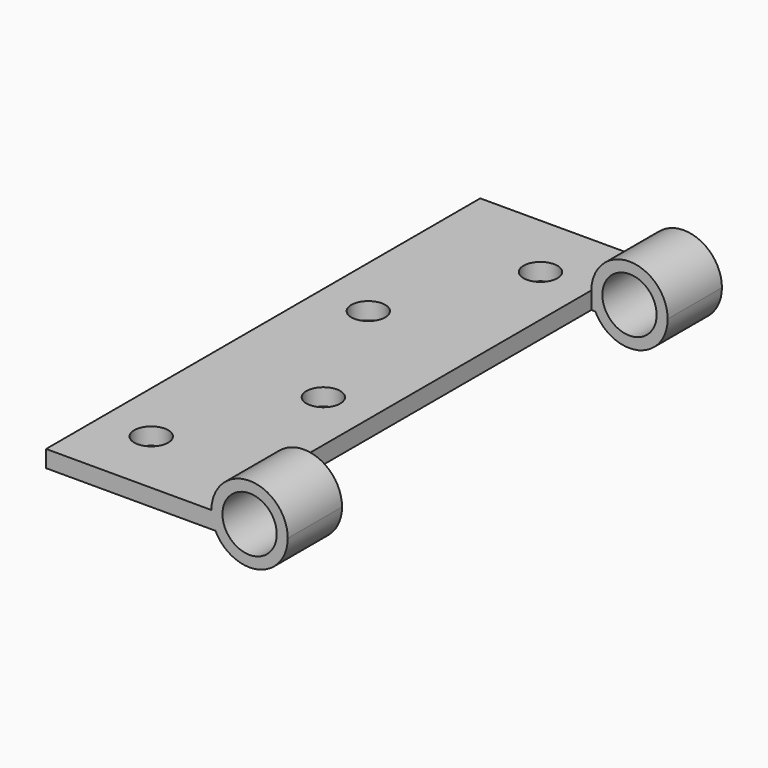
from build123d import *

# Parameters (mm, degrees)
F0_R     = 5.08
F1_DEPTH = 50.8
F2_W     = 15.457089
F2_H     = 76.2
F3_DEPTH = 12.7
F5_D     = 6.35


with BuildPart() as f1:
    # F0 (on Front) → F1 (new body, symmetric)
    with BuildSketch(Plane.XZ):
        with BuildLine():
            ThreePointArc((8.24314, -3.175), (7.687379, -1.630541), (7.498807, 0))
            Line((7.498807, 0), (-23.457443, 0))
            Line((-23.457443, 0), (-23.457443, -3.175))
            Line((-23.457443, -3.175), (8.24314, -3.175))
        make_face()
        with BuildLine():
            ThreePointArc((8.24314, -3.175), (16.273098, -6.955178), (21.786307, 0))
            ThreePointArc((21.786307, 0), (14.642557, 7.14375), (7.498807, 0))
            ThreePointArc((7.498807, 0), (7.687379, -1.630541), (8.24314, -3.175))
        make_face()
        with Locations((14.642557, 0)):
            Circle(F0_R, mode=Mode.SUBTRACT)
    extrude(amount=F1_DEPTH, both=True)

    # F2 (on Top) → F3 (cut, symmetric)
    with BuildSketch(Plane.XY):
        with Locations((15.227614, 0)):
            Rectangle(F2_W, F2_H)
    extrude(amount=F3_DEPTH, both=True, mode=Mode.SUBTRACT)

    # F5 (through all)
    with Locations(Plane.XY):
        with Locations((-2.02593, 38.1), (-13.932443, 12.7), (-2.02593, -12.7), (-13.932443, -38.1)):
            Hole(F5_D / 2)


solid = f1.part
